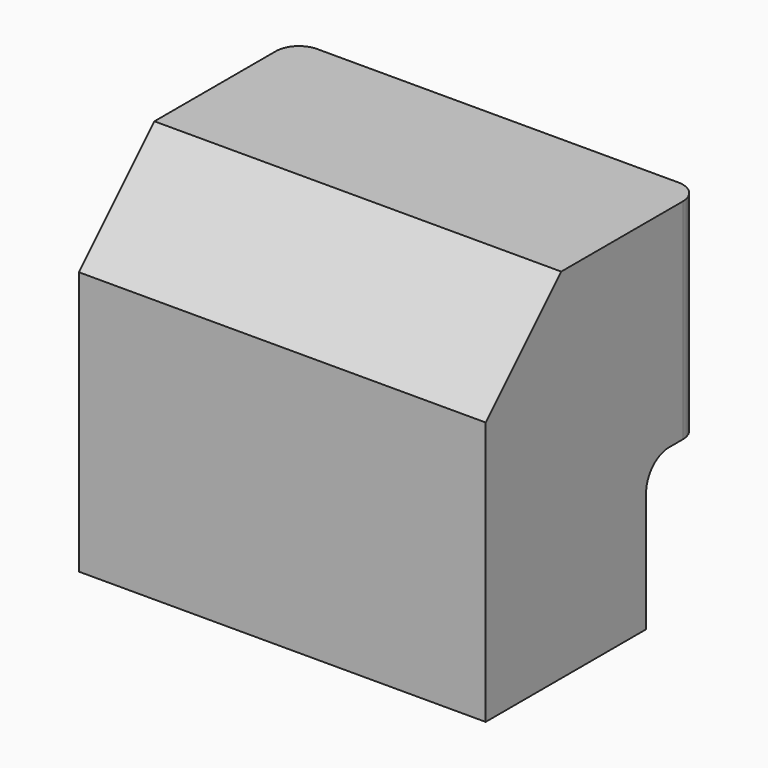
from build123d import *

# Parameters (mm, degrees)
F1_DEPTH = 112.6998
F3_D     = 15.4432
F3_DEPTH = 38.1
F3_TIP   = 4.6396053559
F4_R     = 6.35
F5_R     = 7.9375


with BuildPart() as f1:
    # F0 (on Right) → F1 (new body)
    with BuildSketch(Plane.YZ):
        Polygon((74.5998005843, 99.187), (26.162, 99.187), (0, 73.025), (0, 0), (55.5625, 0), (55.5497996769, 41.148), (74.5998005843, 41.148), align=None)
    extrude(amount=F1_DEPTH)

    # F3
    with Locations(Plane(origin=(0, 0, 0), x_dir=(1, 0, 0), z_dir=(0, 0, -1))):
        with Locations((94.4626, -30.1625), (18.2626, -30.1625)):
            Hole(F3_D / 2, depth=F3_DEPTH)
            with Locations((0, 0, -(F3_DEPTH + F3_TIP / 2))):  # 118° drill point
                Cone(0, F3_D / 2, F3_TIP, mode=Mode.SUBTRACT)

    # F4
    f4_edges = [f1.edges().sort_by_distance(p)[0] for p in [
        (112.6998, 74.599801, 70.1675),
        (0, 74.599801, 70.1675),
    ]]
    fillet(f4_edges, radius=F4_R)

    # F5
    f5_edges = [f1.edges().sort_by_distance(p)[0] for p in [
        (56.3499, 55.5498, 41.148),
    ]]
    fillet(f5_edges, radius=F5_R)


solid = f1.part
